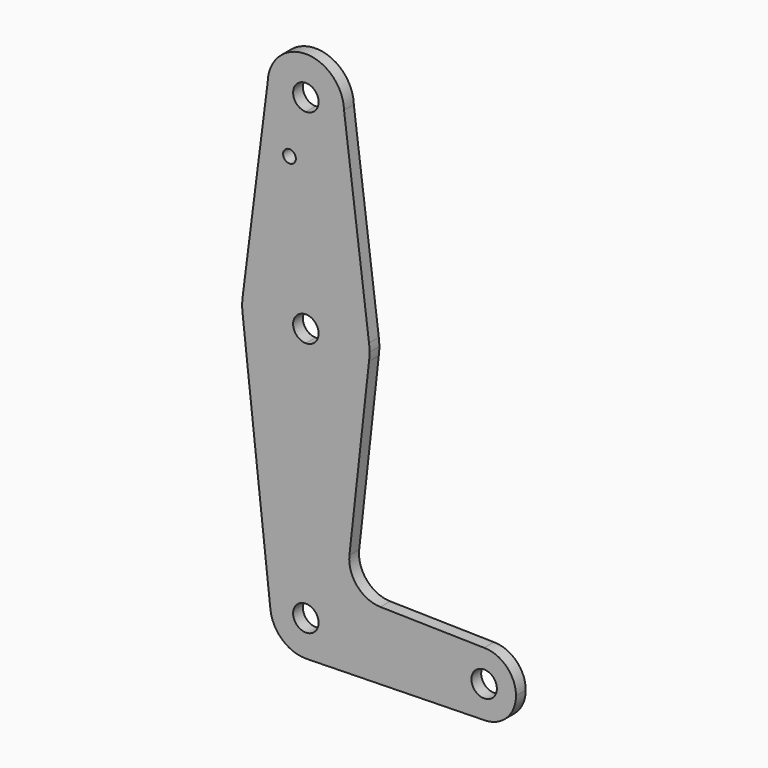
from build123d import *

# Parameters (mm, degrees)
F0_R     = 1.5875
F1_DEPTH = 3.048


with BuildPart() as f1:
    # F0 (on Front) → F1 (new body)
    with BuildSketch(Plane.XZ):
        with BuildLine():
            ThreePointArc((-36.0296212806, 9.5769268066), (-36.9595572504, 7.3318627763), (-39.2046212806, 6.4019268066))
            Line((-39.2046212806, 6.4019268066), (-39.2046212806, -6.2980731934))
            ThreePointArc((-39.2046212806, -6.2980731934), (-28.7097632336, -2.3341428168), (-23.4559617675, 7.57809001))
            ThreePointArc((-23.4559617675, 7.57809001), (-23.3612378861, 8.5755139973), (-23.3296212806, 9.5769268066))
            ThreePointArc((-23.3296212806, 9.5769268066), (-23.3612377133, 10.5783368816), (-23.4559610776, 11.5757581675))
            ThreePointArc((-23.4559610776, 11.5757581675), (-28.7097611781, 21.4879946188), (-39.2046212806, 25.4519268066))
            Line((-39.2046212806, 25.4519268066), (-39.2046212806, 12.7519268066))
            ThreePointArc((-39.2046212806, 12.7519268066), (-36.9595572504, 11.8219908368), (-36.0296212806, 9.5769268066))
        make_face()
        with BuildLine():
            Line((-39.2046212806, -6.2980731934), (-39.2046212806, 6.4019268066))
            ThreePointArc((-39.2046212806, 6.4019268066), (-42.3796212806, 9.5769268066), (-39.2046212806, 12.7519268066))
            Line((-39.2046212806, 12.7519268066), (-39.2046212806, 25.4519268066))
            ThreePointArc((-39.2046212806, 25.4519268066), (-49.699208832, 21.4882347585), (-54.9531899929, 11.5764788854))
            ThreePointArc((-54.9531899929, 11.5764788854), (-55.0796212766, 9.5772873178), (-54.9532807938, 7.57809001))
            ThreePointArc((-54.9532807938, 7.57809001), (-49.6994793277, -2.3341428168), (-39.2046212806, -6.2980731934))
        make_face()
        with BuildLine():
            ThreePointArc((-23.4559617675, 7.57809001), (-28.7097632336, -2.3341428168), (-39.2046212806, -6.2980731934))
            Line((-39.2046212806, -6.2980731934), (-39.2046212806, -45.0330734444))
            ThreePointArc((-39.2046212806, -45.0330734444), (-32.9184421733, -47.6368940861), (-30.3146215316, -53.9230731934))
            Line((-30.3146215316, -53.9230731934), (-2.6921212806, -53.9230731934))
            ThreePointArc((-2.6921212806, -53.9230731934), (-0.3672813563, -48.3104131178), (5.2453787194, -45.9855731934))
            Line((5.2453787194, -45.9855731934), (-20.6130872987, -45.4314633533))
            ThreePointArc((-20.6130872987, -45.4314633533), (-26.4219186802, -42.7228782392), (-28.3447482622, -36.6088221602))
            Line((-28.3447482622, -36.6088221602), (-23.4559617675, 7.57809001))
        make_face()
        with BuildLine():
            Line((-39.2046212806, -45.0330734444), (-39.2046212806, -6.2980731934))
            ThreePointArc((-39.2046212806, -6.2980731934), (-49.6994793277, -2.3341428168), (-54.9532807938, 7.57809001))
            Line((-54.9532807938, 7.57809001), (-48.0407045344, -54.9006867526))
            ThreePointArc((-48.0407045344, -54.9006867526), (-45.8274258163, -47.9925963474), (-39.2046212806, -45.0330734444))
        make_face()
        with BuildLine():
            Line((-39.2046212806, 50.8519268066), (-39.2046212806, 25.4519268066))
            ThreePointArc((-39.2046212806, 25.4519268066), (-28.7097611781, 21.4879946188), (-23.4559610776, 11.5757581675))
            Line((-23.4559610776, 11.5757581675), (-29.6832617971, 60.6402490134))
            ThreePointArc((-29.6832617971, 60.6402490134), (-29.6805314532, 60.5086004922), (-29.6796212806, 60.3769268066))
            ThreePointArc((-29.6796212806, 60.3769268066), (-32.4694291898, 53.6417347158), (-39.2046212806, 50.8519268066))
        make_face()
        with BuildLine():
            ThreePointArc((-54.9531899929, 11.5764788854), (-49.699208832, 21.4882347585), (-39.2046212806, 25.4519268066))
            Line((-39.2046212806, 25.4519268066), (-39.2046212806, 50.8519268066))
            ThreePointArc((-39.2046212806, 50.8519268066), (-46.0243552101, 53.7273513216), (-48.7265815015, 60.6175479864))
            Line((-48.7265815015, 60.6175479864), (-54.9531899929, 11.5764788854))
        make_face()
        with Locations((-43.2879850268, 46.1021268066)):
            Circle(F0_R, mode=Mode.SUBTRACT)
        with BuildLine():
            Line((-39.2046212806, -50.7480731934), (-39.2046212806, -45.0330734444))
            ThreePointArc((-39.2046212806, -45.0330734444), (-45.8274258163, -47.9925963474), (-48.0407045344, -54.9006867526))
            ThreePointArc((-48.0407045344, -54.9006867526), (-45.1350981267, -60.5458777291), (-39.2046212806, -62.8130729425))
            Line((-39.2046212806, -62.8130729425), (-38.8245213576, -62.8049434687))
            ThreePointArc((-38.8245213576, -62.8049434687), (-32.7854630898, -60.0733986856), (-30.3146215316, -53.9230731934))
            Line((-30.3146215316, -53.9230731934), (-36.0296212806, -53.9230731934))
            ThreePointArc((-36.0296212806, -53.9230731934), (-41.4496853109, -56.1681372237), (-39.2046212806, -50.7480731934))
        make_face()
        with BuildLine():
            ThreePointArc((-48.7265815015, 60.6175479864), (-46.0243552101, 53.7273513216), (-39.2046212806, 50.8519268066))
            ThreePointArc((-39.2046212806, 50.8519268066), (-32.4694291898, 53.6417347158), (-29.6796212806, 60.3769268066))
            ThreePointArc((-29.6796212806, 60.3769268066), (-29.6805314532, 60.5086004922), (-29.6832617971, 60.6402490134))
            ThreePointArc((-29.6832617971, 60.6402490134), (-39.2159757678, 69.9019200389), (-48.7265815015, 60.6175479864))
        make_face()
        with BuildLine():
            ThreePointArc((-36.0296212806, 60.3769268066), (-36.9595572504, 58.1318627763), (-39.2046212806, 57.2019268066))
            ThreePointArc((-39.2046212806, 57.2019268066), (-41.4496853109, 62.6219908368), (-36.0296212806, 60.3769268066))
        make_face(mode=Mode.SUBTRACT)
        with BuildLine():
            Line((-2.6921212806, -53.9230731934), (-30.3146215316, -53.9230731934))
            ThreePointArc((-30.3146215316, -53.9230731934), (-32.7854630898, -60.0733986856), (-38.8245213576, -62.8049434687))
            Line((-38.8245213576, -62.8049434687), (5.4151049958, -61.8587583712))
            ThreePointArc((5.4151049958, -61.8587583712), (-0.3069497981, -59.5954231725), (-2.6921212806, -53.9230731934))
        make_face()
        with BuildLine():
            ThreePointArc((5.2453787194, -45.9855731934), (-0.3672813563, -48.3104131178), (-2.6921212806, -53.9230731934))
            ThreePointArc((-2.6921212806, -53.9230731934), (-0.3069497981, -59.5954231725), (5.4151049958, -61.8587583712))
            ThreePointArc((5.4151049958, -61.8587583712), (10.9177286984, -59.4754017108), (13.1828787194, -53.9230731934))
            ThreePointArc((13.1828787194, -53.9230731934), (10.858038795, -48.3104131178), (5.2453787194, -45.9855731934))
        make_face()
        with BuildLine():
            ThreePointArc((8.4203787194, -53.9230731934), (5.2453787194, -57.0980731934), (2.0703787194, -53.9230731934))
            ThreePointArc((2.0703787194, -53.9230731934), (5.2453787194, -50.7480731934), (8.4203787194, -53.9230731934))
        make_face(mode=Mode.SUBTRACT)
        with BuildLine():
            ThreePointArc((-39.2046212806, -62.8130729425), (-39.0145278564, -62.8110403417), (-38.8245213576, -62.8049434687))
            Line((-38.8245213576, -62.8049434687), (-39.2046212806, -62.8130729425))
        make_face()
        with BuildLine():
            ThreePointArc((-30.3146215316, -53.9230731934), (-32.9184421733, -47.6368940861), (-39.2046212806, -45.0330734444))
            Line((-39.2046212806, -45.0330734444), (-39.2046212806, -50.7480731934))
            ThreePointArc((-39.2046212806, -50.7480731934), (-36.9595572504, -51.6780091632), (-36.0296212806, -53.9230731934))
            Line((-36.0296212806, -53.9230731934), (-30.3146215316, -53.9230731934))
        make_face()
    extrude(amount=F1_DEPTH)


solid = f1.part
